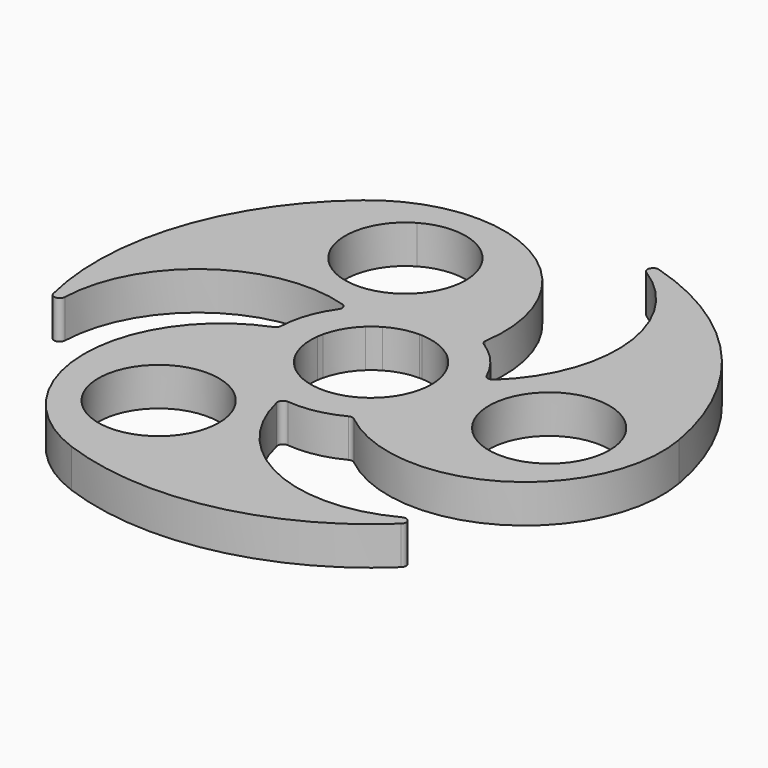
from build123d import *

# Parameters (mm, degrees)
F0_R     = 11
F1_DEPTH = 7


with BuildPart() as f1:
    # F0 (on Top) → F1 (new body)
    with BuildSketch(Plane.XY):
        with BuildLine():
            ThreePointArc((8.981017, -15.163056), (37.360532, -17.168881), (49.240388, 8.682409))
            ThreePointArc((49.240388, 8.682409), (37.281483, 33.318028), (14.13919, 47.959184))
            ThreePointArc((14.13919, 47.959184), (12.945113, 47.411758), (13.323468, 46.153846))
            ThreePointArc((13.323468, 46.153846), (24.888237, 27.361281), (17.063899, 6.729167))
            ThreePointArc((17.063899, 6.729167), (16.186493, 6.479167), (15.471268, 7.045556))
            ThreePointArc((15.471268, 7.045556), (12.816207, 11.168922), (9.094541, 14.362776))
            ThreePointArc((9.094541, 14.362776), (8.719314, 14.793475), (8.641083, 15.359317))
            ThreePointArc((8.641083, 15.359317), (-0.214274, 38.479995), (-24.620194, 42.643427))
            ThreePointArc((-24.620194, 42.643427), (-28.56969, 40.801746), (-32.13938, 38.302222))
            ThreePointArc((-32.13938, 38.302222), (-47.495001, 15.627697), (-48.603467, -11.734694))
            ThreePointArc((-48.603467, -11.734694), (-47.532344, -12.495082), (-46.632137, -11.538462))
            ThreePointArc((-46.632137, -11.538462), (-36.139683, 7.873205), (-14.359579, 11.413187))
            ThreePointArc((-14.359579, 11.413187), (-13.70437, 10.77833), (-13.837264, 9.875734))
            ThreePointArc((-13.837264, 9.875734), (-16.080674, 5.5147), (-16.985799, 0.694715))
            ThreePointArc((-16.985799, 0.694715), (-17.171182, 0.15441), (-17.6221, -0.196261))
            ThreePointArc((-17.6221, -0.196261), (-33.548953, -23.770729), (-17.101007, -46.984631))
            ThreePointArc((-17.101007, -46.984631), (10.213517, -48.945726), (34.464276, -36.22449))
            ThreePointArc((34.464276, -36.22449), (34.58723, -34.916676), (33.308669, -34.615385))
            ThreePointArc((33.308669, -34.615385), (11.251446, -35.234486), (-2.70432, -18.142353))
            ThreePointArc((-2.70432, -18.142353), (-2.482123, -17.257497), (-1.634004, -16.921289))
            ThreePointArc((-1.634004, -16.921289), (3.264467, -16.683622), (7.891259, -15.057491))
            ThreePointArc((7.891259, -15.057491), (8.451868, -14.947885), (8.981017, -15.163056))
        make_face()
        with Locations((-16.25, -28.145826)):
            Circle(F0_R, mode=Mode.SUBTRACT)
        with BuildLine():
            ThreePointArc((-10.75, 18.619546), (-25.776279, 22.645826), (-21.75, 37.672105))
            ThreePointArc((-21.75, 37.672105), (-10.75, 37.672105), (-5.25, 28.145826))
            ThreePointArc((-5.25, 28.145826), (-6.723721, 22.645826), (-10.75, 18.619546))
        make_face(mode=Mode.SUBTRACT)
        with BuildLine():
            ThreePointArc((-7.461031, 8.082884), (-6.520577, 8.859011), (-5.5, 9.526279))
            ThreePointArc((-5.5, 9.526279), (-2.847009, 10.625184), (0, 11))
            ThreePointArc((0, 11), (0.260024, 10.996926), (0.519903, 10.987707))
            ThreePointArc((0.519903, 10.987707), (3.762222, 10.336619), (6.664493, 8.751259))
            ThreePointArc((6.664493, 8.751259), (7.070664, 8.426489), (7.461031, 8.082884))
            ThreePointArc((7.461031, 8.082884), (9.526279, 5.5), (10.730499, 2.42))
            ThreePointArc((10.730499, 2.42), (10.784706, 2.16567), (10.832885, 1.91013))
            ThreePointArc((10.832885, 1.91013), (10.958142, 0.958713), (11, 0))
            ThreePointArc((11, 0), (10.554916, -3.097378), (9.255682, -5.944103))
            ThreePointArc((9.255682, -5.944103), (7.070664, -8.426489), (4.246566, -10.14725))
            ThreePointArc((4.246566, -10.14725), (3.762222, -10.336619), (3.269468, -10.502884))
            ThreePointArc((3.269468, -10.502884), (0, -11), (-3.269468, -10.502884))
            ThreePointArc((-3.269468, -10.502884), (-7.070664, -8.426489), (-9.775585, -5.043604))
            ThreePointArc((-9.775585, -5.043604), (-10.832885, -1.91013), (-10.911059, 1.395991))
            ThreePointArc((-10.911059, 1.395991), (-10.832885, 1.91013), (-10.730499, 2.42))
            ThreePointArc((-10.730499, 2.42), (-9.526279, 5.5), (-7.461031, 8.082884))
        make_face(mode=Mode.SUBTRACT)
        with Locations((32.5, 0)):
            Circle(F0_R, mode=Mode.SUBTRACT)
    extrude(amount=F1_DEPTH)


solid = f1.part
